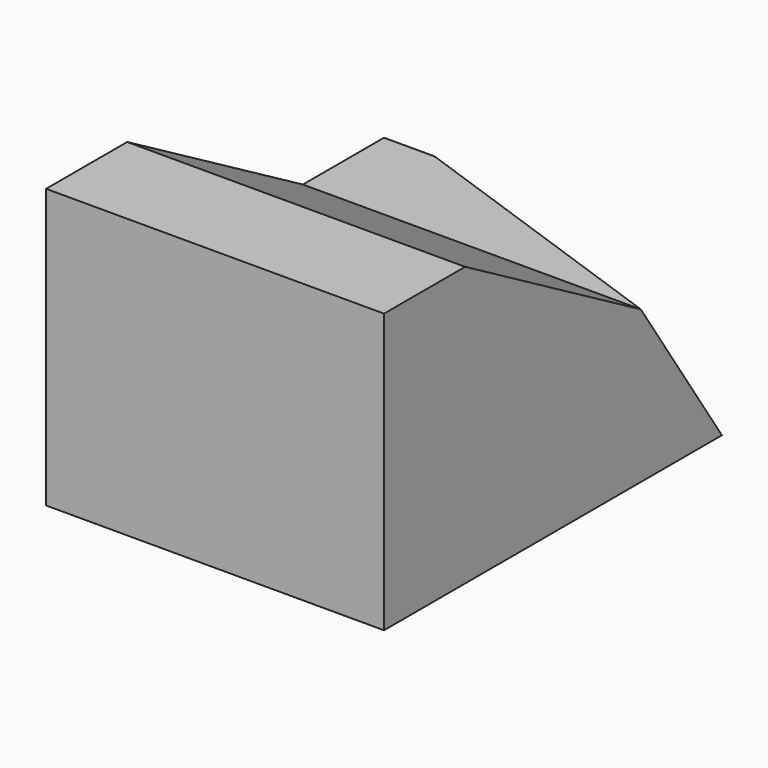
from build123d import *

# Parameters (mm, degrees)
F1_DEPTH = 40
F2_W     = 12
F2_H     = 18
F3_DEPTH = 6
F7_DEPTH = 25.4
F8_DEPTH = 13.462
F9_DEPTH = 31.496


with BuildPart() as f1:
    # F0 (on Right) → F1 (new body)
    with BuildSketch(Plane.YZ):
        Polygon((-23.4989325106, -35.5329651147), (14.5010674894, -35.5329651147), (14.5010674894, -17.5329651147), (-11.4989325106, -2.5329651147), (-23.4989325106, -2.5329651147), align=None)
    extrude(amount=F1_DEPTH)

    # F2 (on face) → F3 (join)
    with BuildSketch(Plane(origin=(0, 0, 0), x_dir=(0, -1, 0), z_dir=(-1, 0, 0))):
        with Locations((-20.5010674894, -26.5329651147)):
            Rectangle(F2_W, F2_H)
    extrude(amount=-F3_DEPTH)

    # F5 (on face) → F7 (join)
    with BuildSketch(Plane(origin=(0, 26.5010674894, 0), x_dir=(-1, 0, 0), z_dir=(0, 1, 0))):
        Polygon((-40, -35.5329651147), (-6, -35.5329651147), (-6, -17.5329651147), align=None)
    extrude(amount=-F7_DEPTH)

    # F4 (on face) → F8 (join)
    with BuildSketch(Plane.XY.offset(-17.5329651147)):
        Polygon((6, 26.5010674894), (6, 14.5010674894), (40, 14.5010674894), align=None)
    extrude(amount=-F8_DEPTH)

    # F6 (on face) → F9 (join)
    with BuildSketch(Plane.YZ.offset(40)):
        Polygon((14.5010674894, -17.5329651147), (14.5010674894, -35.5329651147), (26.5010674894, -35.5329651147), align=None)
    extrude(amount=-F9_DEPTH)


solid = f1.part
